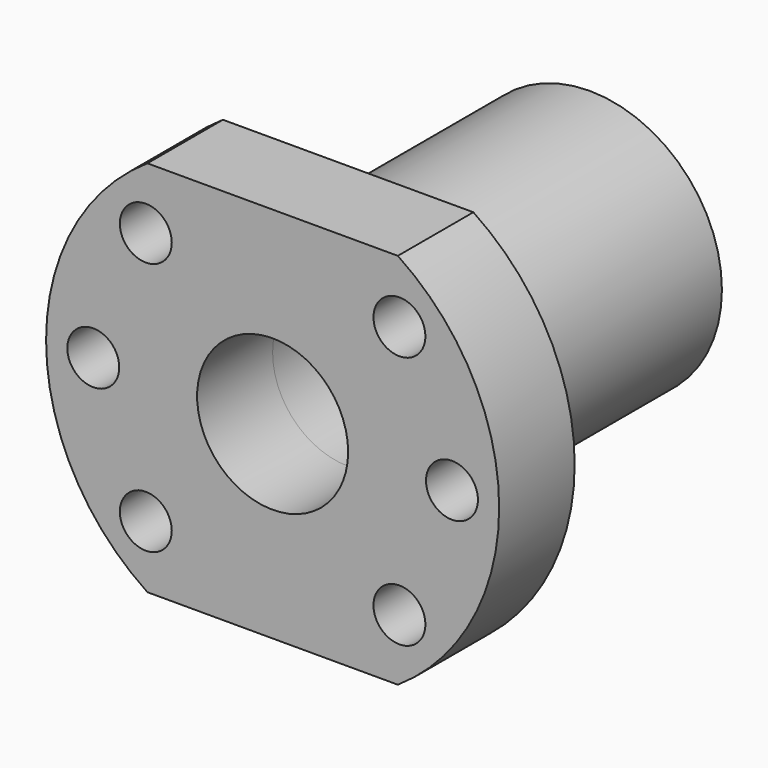
from build123d import *

# Parameters (mm, degrees)
F0_R     = 2.75
F0_R_2   = 8
F1_DEPTH = 10
F2_R     = 14
F2_R_2   = 8
F3_DEPTH = 32


with BuildPart() as f1:
    # F0 (on Front) → F1 (new body)
    with BuildSketch(Plane.XZ):
        with BuildLine():
            Line((13.266499, 20), (-13.266499, 20))
            ThreePointArc((-13.266499, 20), (-24, 0), (-13.266499, -20))
            Line((-13.266499, -20), (13.266499, -20))
            ThreePointArc((13.266499, -20), (24, 0), (13.266499, 20))
        make_face()
        with Locations((-13.435029, -13.435029)):
            Circle(F0_R, mode=Mode.SUBTRACT)
        with Locations((-19, 0)):
            Circle(F0_R, mode=Mode.SUBTRACT)
        with Locations((13.435029, -13.435029)):
            Circle(F0_R, mode=Mode.SUBTRACT)
        Circle(F0_R_2, mode=Mode.SUBTRACT)
        with Locations((19, 0)):
            Circle(F0_R, mode=Mode.SUBTRACT)
        with Locations((-13.435029, 13.435029)):
            Circle(F0_R, mode=Mode.SUBTRACT)
        with Locations((13.435029, 13.435029)):
            Circle(F0_R, mode=Mode.SUBTRACT)
    extrude(amount=F1_DEPTH)

    # F2 (on face) → F3 (join)
    with BuildSketch(Plane(origin=(0, 0, 0), x_dir=(-1, 0, 0), z_dir=(0, 1, 0))):
        Circle(F2_R)
        Circle(F2_R_2, mode=Mode.SUBTRACT)
    extrude(amount=F3_DEPTH)


solid = f1.part
